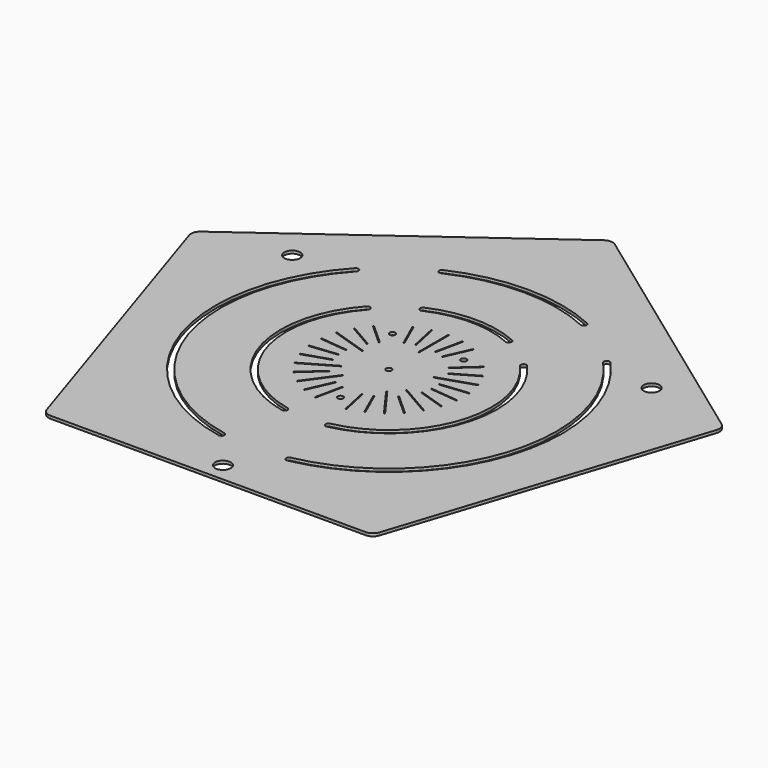
from build123d import *

# Parameters (mm, degrees)
SKETCH_R              = 8.5
PAD_DEPTH             = 3
SKETCH001_W           = 1
SKETCH001_H           = 40.001562
POCKET_DEPTH          = 3
POLARPATTERN_COUNT    = 5
POLARPATTERN001_COUNT = 3
SKETCH003_W           = 1
SKETCH003_H           = 30.000937
POCKET001_DEPTH       = 3
POLARPATTERN002_COUNT = 15
POLARPATTERN003_COUNT = 2
POLARPATTERN003_ANGLE = 12
POLARPATTERN004_COUNT = 2
POLARPATTERN004_ANGLE = 60
POLARPATTERN005_COUNT = 2
POLARPATTERN005_ANGLE = 84
POLARPATTERN006_COUNT = 2
POLARPATTERN006_ANGLE = 108
POLARPATTERN007_COUNT = 2
POLARPATTERN007_ANGLE = 132
POLARPATTERN008_COUNT = 2
POLARPATTERN008_ANGLE = 156
POLARPATTERN009_COUNT = 2
POLARPATTERN009_ANGLE = 348
POLARPATTERN010_COUNT = 2
POLARPATTERN010_ANGLE = 300
POLARPATTERN011_COUNT = 2
POLARPATTERN011_ANGLE = 276
POLARPATTERN012_COUNT = 2
POLARPATTERN012_ANGLE = 252
POLARPATTERN013_COUNT = 2
POLARPATTERN013_ANGLE = 228
POLARPATTERN014_COUNT = 2
POLARPATTERN014_ANGLE = 204
SKETCH004_R           = 3.05
HOLE_DEPTH            = 3.001
FILLET_R              = 3
FILLET001_R           = 10


with BuildPart() as part:
    # Sketch → Pad (new body)
    with BuildSketch(Plane.XY):
        Polygon((0, 300), (-285.316955, 92.705098), (-176.335576, -242.705098), (176.335576, -242.705098), (285.316955, 92.705098), align=None)
        with Locations((0, -222.705098)):
            Circle(SKETCH_R, mode=Mode.SUBTRACT)
        with Locations((-192.868273, 111.352549)):
            Circle(SKETCH_R, mode=Mode.SUBTRACT)
        with Locations((192.868273, 111.352549)):
            Circle(SKETCH_R, mode=Mode.SUBTRACT)
        with BuildLine():
            ThreePointArc((-79.751252, 75.761057), (-104.617963, -33.986495), (-20, -108.166538))
            Line((-20, -108.166538), (-21.109091, -114.164864))
            ThreePointArc((-84.173821, 79.962352), (-110.419505, -35.8712), (-21.109091, -114.164864))
            Line((-84.173821, 79.962352), (-79.751252, 75.761057))
        make_face(mode=Mode.SUBTRACT)
        with BuildLine():
            ThreePointArc((-134.924618, 128.173934), (-176.994572, -57.49897), (-33.836364, -182.998116))
            Line((-33.836364, -182.998116), (-32.727273, -176.99979))
            ThreePointArc((-130.502048, 123.972639), (-171.19303, -55.614264), (-32.727273, -176.99979))
            Line((-134.924618, 128.173934), (-130.502048, 123.972639))
        make_face(mode=Mode.SUBTRACT)
        with BuildLine():
            ThreePointArc((47.408555, 99.259402), (0, 110), (-47.408555, 99.259402))
            Line((-47.408555, 99.259402), (-50.037575, 104.763787))
            ThreePointArc((50.037575, 104.763787), (0, 116.1), (-50.037575, 104.763787))
            Line((50.037575, 104.763787), (47.408555, 99.259402))
        make_face(mode=Mode.SUBTRACT)
        with BuildLine():
            ThreePointArc((80.206656, 167.928861), (0, 186.1), (-80.206656, 167.928861))
            Line((-77.577636, 162.424476), (-80.206656, 167.928861))
            ThreePointArc((77.577636, 162.424476), (0, 180), (-77.577636, 162.424476))
            Line((77.577636, 162.424476), (80.206656, 167.928861))
        make_face(mode=Mode.SUBTRACT)
        with BuildLine():
            ThreePointArc((20, -108.166538), (104.617963, -33.986495), (79.751252, 75.761057))
            Line((79.751252, 75.761057), (84.173821, 79.962352))
            ThreePointArc((21.109091, -114.164864), (110.419505, -35.8712), (84.173821, 79.962352))
            Line((20, -108.166538), (21.109091, -114.164864))
        make_face(mode=Mode.SUBTRACT)
        with BuildLine():
            ThreePointArc((33.836364, -182.998116), (176.994572, -57.49897), (134.924618, 128.173934))
            Line((130.502048, 123.972639), (134.924618, 128.173934))
            ThreePointArc((32.727273, -176.99979), (171.19303, -55.614264), (130.502048, 123.972639))
            Line((32.727273, -176.99979), (33.836364, -182.998116))
        make_face(mode=Mode.SUBTRACT)
    extrude(amount=PAD_DEPTH)

    # Sketch001 (on Face34 of Pad) → Pocket (cut)
    with BuildSketch(Plane.XY.offset(3)):
        with Locations((0, 59.997656)):
            Rectangle(SKETCH001_W, SKETCH001_H)
    pocket = extrude(amount=-POCKET_DEPTH, mode=Mode.SUBTRACT)

    # PolarPattern: Pocket ×5 about axis
    polarpattern_axis = Axis((0, 0, 3), (0, 0, 1))
    for i in range(1, POLARPATTERN_COUNT):
        add(pocket.rotate(polarpattern_axis, i * 360 / POLARPATTERN_COUNT), mode=Mode.SUBTRACT)

    # PolarPattern001: Pocket ×3 about axis
    polarpattern001_axis = Axis((0, 0, 3), (0, 0, 1))
    for i in range(1, POLARPATTERN001_COUNT):
        add(pocket.rotate(polarpattern001_axis, i * 360 / POLARPATTERN001_COUNT), mode=Mode.SUBTRACT)

    # Sketch003 (on Face34 of Pad) → Pocket001 (cut)
    with BuildSketch(Plane.XY.offset(3)):
        with Locations((0, 64.997968)):
            Rectangle(SKETCH003_W, SKETCH003_H)
    pocket001 = extrude(amount=-POCKET001_DEPTH, mode=Mode.SUBTRACT)

    # PolarPattern002: Pocket001 ×15 about axis
    polarpattern002_axis = Axis((0, 0, 3), (0, 0, 1))
    for i in range(1, POLARPATTERN002_COUNT):
        add(pocket001.rotate(polarpattern002_axis, i * 360 / POLARPATTERN002_COUNT), mode=Mode.SUBTRACT)

    # PolarPattern003: Pocket001 ×2 about axis
    polarpattern003_axis = Axis((0, 0, 3), (0, 0, 1))
    for i in range(1, POLARPATTERN003_COUNT):
        add(pocket001.rotate(polarpattern003_axis, i * POLARPATTERN003_ANGLE / (POLARPATTERN003_COUNT - 1)), mode=Mode.SUBTRACT)

    # PolarPattern004: Pocket001 ×2 about axis
    polarpattern004_axis = Axis((0, 0, 3), (0, 0, 1))
    for i in range(1, POLARPATTERN004_COUNT):
        add(pocket001.rotate(polarpattern004_axis, i * POLARPATTERN004_ANGLE / (POLARPATTERN004_COUNT - 1)), mode=Mode.SUBTRACT)

    # PolarPattern005: Pocket001 ×2 about axis
    polarpattern005_axis = Axis((0, 0, 3), (0, 0, 1))
    for i in range(1, POLARPATTERN005_COUNT):
        add(pocket001.rotate(polarpattern005_axis, i * POLARPATTERN005_ANGLE / (POLARPATTERN005_COUNT - 1)), mode=Mode.SUBTRACT)

    # PolarPattern006: Pocket001 ×2 about axis
    polarpattern006_axis = Axis((0, 0, 3), (0, 0, 1))
    for i in range(1, POLARPATTERN006_COUNT):
        add(pocket001.rotate(polarpattern006_axis, i * POLARPATTERN006_ANGLE / (POLARPATTERN006_COUNT - 1)), mode=Mode.SUBTRACT)

    # PolarPattern007: Pocket001 ×2 about axis
    polarpattern007_axis = Axis((0, 0, 3), (0, 0, 1))
    for i in range(1, POLARPATTERN007_COUNT):
        add(pocket001.rotate(polarpattern007_axis, i * POLARPATTERN007_ANGLE / (POLARPATTERN007_COUNT - 1)), mode=Mode.SUBTRACT)

    # PolarPattern008: Pocket001 ×2 about axis
    polarpattern008_axis = Axis((0, 0, 3), (0, 0, 1))
    for i in range(1, POLARPATTERN008_COUNT):
        add(pocket001.rotate(polarpattern008_axis, i * POLARPATTERN008_ANGLE / (POLARPATTERN008_COUNT - 1)), mode=Mode.SUBTRACT)

    # PolarPattern009: Pocket001 ×2 about axis
    polarpattern009_axis = Axis((0, 0, 3), (0, 0, 1))
    for i in range(1, POLARPATTERN009_COUNT):
        add(pocket001.rotate(polarpattern009_axis, i * POLARPATTERN009_ANGLE / (POLARPATTERN009_COUNT - 1)), mode=Mode.SUBTRACT)

    # PolarPattern010: Pocket001 ×2 about axis
    polarpattern010_axis = Axis((0, 0, 3), (0, 0, 1))
    for i in range(1, POLARPATTERN010_COUNT):
        add(pocket001.rotate(polarpattern010_axis, i * POLARPATTERN010_ANGLE / (POLARPATTERN010_COUNT - 1)), mode=Mode.SUBTRACT)

    # PolarPattern011: Pocket001 ×2 about axis
    polarpattern011_axis = Axis((0, 0, 3), (0, 0, 1))
    for i in range(1, POLARPATTERN011_COUNT):
        add(pocket001.rotate(polarpattern011_axis, i * POLARPATTERN011_ANGLE / (POLARPATTERN011_COUNT - 1)), mode=Mode.SUBTRACT)

    # PolarPattern012: Pocket001 ×2 about axis
    polarpattern012_axis = Axis((0, 0, 3), (0, 0, 1))
    for i in range(1, POLARPATTERN012_COUNT):
        add(pocket001.rotate(polarpattern012_axis, i * POLARPATTERN012_ANGLE / (POLARPATTERN012_COUNT - 1)), mode=Mode.SUBTRACT)

    # PolarPattern013: Pocket001 ×2 about axis
    polarpattern013_axis = Axis((0, 0, 3), (0, 0, 1))
    for i in range(1, POLARPATTERN013_COUNT):
        add(pocket001.rotate(polarpattern013_axis, i * POLARPATTERN013_ANGLE / (POLARPATTERN013_COUNT - 1)), mode=Mode.SUBTRACT)

    # PolarPattern014: Pocket001 ×2 about axis
    polarpattern014_axis = Axis((0, 0, 3), (0, 0, 1))
    for i in range(1, POLARPATTERN014_COUNT):
        add(pocket001.rotate(polarpattern014_axis, i * POLARPATTERN014_ANGLE / (POLARPATTERN014_COUNT - 1)), mode=Mode.SUBTRACT)

    # Sketch004 (on Face5 of PolarPattern014) → Hole (cut, through all)
    with BuildSketch(Plane.XY.offset(3)):
        with Locations((-38.206041, 52.586105)):
            Circle(SKETCH004_R)
        with Locations((38.206041, 52.586105)):
            Circle(SKETCH004_R)
        with Locations((0, -65)):
            Circle(SKETCH004_R)
        Circle(SKETCH004_R)
    extrude(amount=-HOLE_DEPTH, mode=Mode.SUBTRACT)

    # Fillet
    fillet_edges = [part.edges().sort_by_distance(p)[0] for p in [
        (84.173821, 79.962352, 1.5),
        (79.751252, 75.761057, 1.5),
        (130.502048, 123.972639, 1.5),
        (134.924618, 128.173934, 1.5),
        (33.836364, -182.998116, 1.5),
        (32.727273, -176.99979, 1.5),
        (20, -108.166538, 1.5),
        (21.109091, -114.164864, 1.5),
        (-33.836364, -182.998116, 1.5),
        (-21.109091, -114.164864, 1.5),
        (-20, -108.166538, 1.5),
        (-32.727273, -176.99979, 1.5),
        (-79.751252, 75.761057, 1.5),
        (-130.502048, 123.972639, 1.5),
        (-134.924618, 128.173934, 1.5),
        (-84.173821, 79.962352, 1.5),
        (47.408555, 99.259402, 1.5),
        (77.577636, 162.424476, 1.5),
        (80.206656, 167.928861, 1.5),
        (50.037575, 104.763787, 1.5),
        (-47.408555, 99.259402, 1.5),
        (-77.577636, 162.424476, 1.5),
        (-80.206656, 167.928861, 1.5),
        (-50.037575, 104.763787, 1.5),
    ]]
    fillet(fillet_edges, radius=FILLET_R)

    # Fillet001
    fillet001_edges = [part.edges().sort_by_distance(p)[0] for p in [
        (-285.316955, 92.705098, 1.5),
        (0, 300, 1.5),
        (285.316955, 92.705098, 1.5),
        (-176.335576, -242.705098, 1.5),
        (176.335576, -242.705098, 1.5),
    ]]
    fillet(fillet001_edges, radius=FILLET001_R)


solid = part.part
